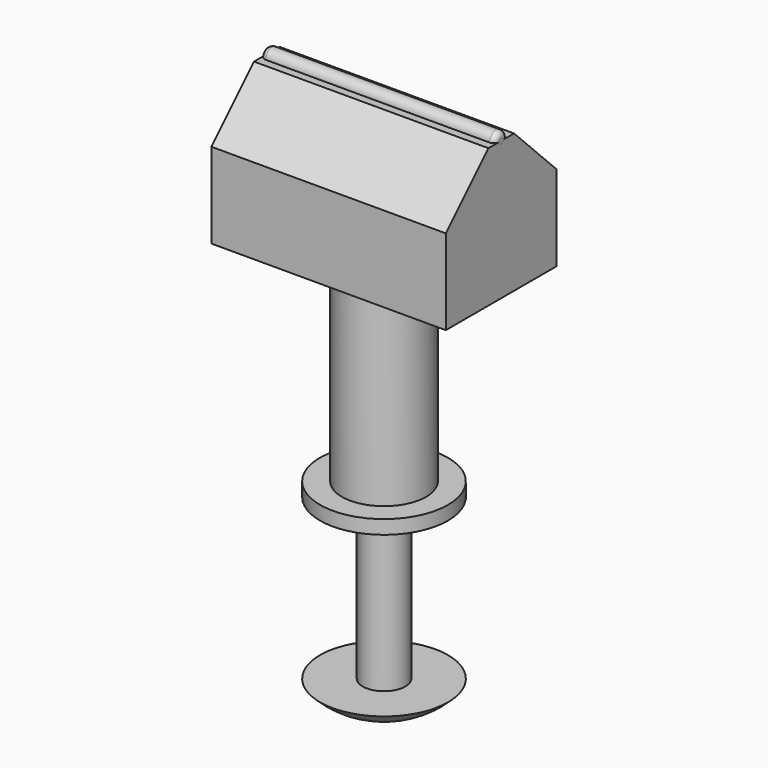
from build123d import *

# Parameters (mm, degrees)
F0_R          = 2
F1_DEPTH      = 40
F4_W          = 22
F4_H          = 13
F4_R          = 2
F5_DEPTH      = 5
F5_FACE_W     = 22
F5_FACE_H     = 13
F5_FACE_R     = 2
F1_FACE_R     = 2
F6_DEPTH      = 8
F7_SIZE       = 5
F8_R          = 0.75
F9_DEPTH      = 11
F9_DEPTH_BACK = 11
F10_R         = 0.5
F12_R         = 6
F12_R_2       = 2.25
F13_DEPTH     = 1.3
F14_R         = 3.95
F14_R_2       = 2.25
F15_DEPTH     = 18


with BuildPart() as f1:
    # F0 (on Top) → F1 (new body)
    with BuildSketch(Plane.XY):
        Circle(F0_R)
    extrude(amount=F1_DEPTH)

    # F2 (on Right) → F3 (revolve)
    with BuildSketch(Plane.YZ):
        with BuildLine():
            Line((0, -2.4), (0, 0))
            Line((0, 0), (-6, 0))
            ThreePointArc((-6, 0), (-3.2566227403, -1.8415568508), (0, -2.4))
        make_face()
    revolve(axis=Axis((0, 0, -1.2), (0, 0, -1)))


with BuildPart() as f5:
    # F4 (on face) → F5 (new body)
    with BuildSketch(Plane.XY.offset(40)):
        Rectangle(F4_W, F4_H)
        Circle(F4_R, mode=Mode.SUBTRACT)
    extrude(amount=-F5_DEPTH)

    # F5_face (on face) + F1_face (on face) → F6 (join)
    with BuildSketch(Plane.XY.offset(40)):
        Rectangle(F5_FACE_W, F5_FACE_H)
        Circle(F5_FACE_R, mode=Mode.SUBTRACT)
    with BuildSketch(Plane.XY.offset(40)):
        Circle(F1_FACE_R)
    extrude(amount=F6_DEPTH)

    # F7
    f7_edges = [f5.edges().sort_by_distance(p)[0] for p in [
        (0, -6.5, 48),
        (0, 6.5, 48),
    ]]
    chamfer(f7_edges, length=F7_SIZE)


with BuildPart() as f9:
    # F8 (on Right) → F9 (new body, two sides)
    with BuildSketch(Plane.YZ) as f9_sk:
        with Locations((0, 48)):
            Circle(F8_R)
    extrude(amount=F9_DEPTH)
    extrude(f9_sk.sketch, amount=-F9_DEPTH_BACK)

    # F10
    f10_edges = [f9.edges().sort_by_distance(p)[0] for p in [
        (11, -0.75, 48),
        (-11, -0.75, 48),
    ]]
    fillet(f10_edges, radius=F10_R)


with BuildPart() as f13:
    # F12 (on offset) → F13 (new body)
    with BuildSketch(Plane.XY.offset(15)):
        Circle(F12_R)
        Circle(F12_R_2, mode=Mode.SUBTRACT)
    extrude(amount=F13_DEPTH)

    # F14 (on face) → F15 (join)
    with BuildSketch(Plane.XY.offset(16.3)):
        Circle(F14_R)
        Circle(F14_R_2, mode=Mode.SUBTRACT)
    extrude(amount=F15_DEPTH)


solid = Compound([f1.part, f5.part, f9.part, f13.part])
